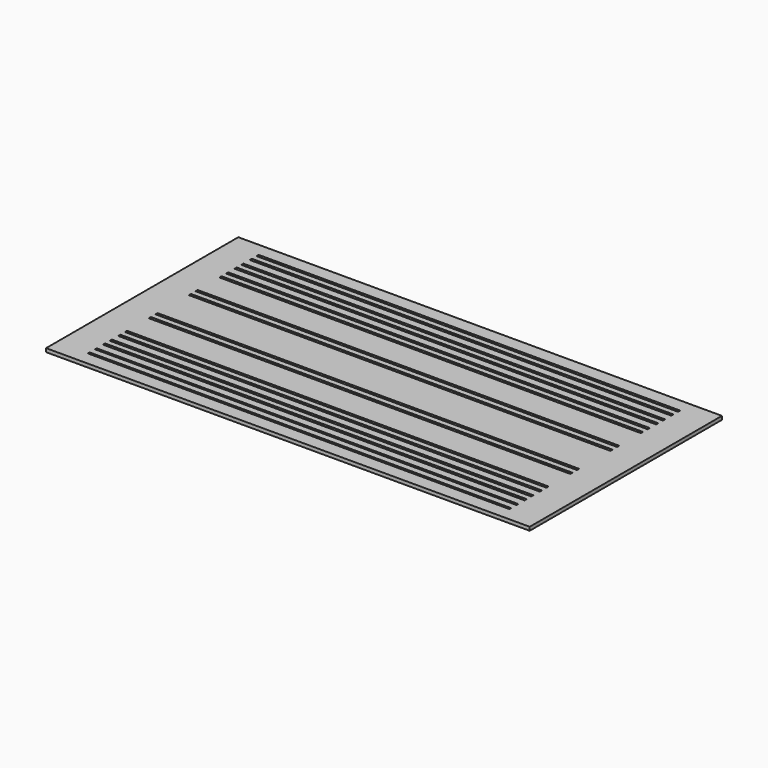
from build123d import *

# Parameters (mm, degrees)
F1_W     = 1091
F1_H     = 542
F1_W_2   = 951
F1_H_2   = 5
F1_H_3   = 6
F2_DEPTH = 8


with BuildPart() as f2:
    # F1 (on face) → F2 (new body)
    with BuildSketch(Plane.XY):
        with Locations((545.5, 271)):
            Rectangle(F1_W, F1_H)
        with Locations((545.5, 32.75)):
            Rectangle(F1_W_2, F1_H_2, mode=Mode.SUBTRACT)
        with Locations((545.5, 52.75)):
            Rectangle(F1_W_2, F1_H_2, mode=Mode.SUBTRACT)
        with Locations((545.5, 76)):
            Rectangle(F1_W_2, F1_H_3, mode=Mode.SUBTRACT)
        with Locations((545.5, 95)):
            Rectangle(F1_W_2, F1_H_3, mode=Mode.SUBTRACT)
        with Locations((545.5, 118.75)):
            Rectangle(F1_W_2, F1_H_3, mode=Mode.SUBTRACT)
        with Locations((545.5, 137.75)):
            Rectangle(F1_W_2, F1_H_3, mode=Mode.SUBTRACT)
        with Locations((545.5, 205.061247)):
            Rectangle(F1_W_2, F1_H_3, mode=Mode.SUBTRACT)
        with Locations((545.5, 224.061247)):
            Rectangle(F1_W_2, F1_H_3, mode=Mode.SUBTRACT)
        with Locations((545.5, 317.938753)):
            Rectangle(F1_W_2, F1_H_3, mode=Mode.SUBTRACT)
        with Locations((545.5, 336.938753)):
            Rectangle(F1_W_2, F1_H_3, mode=Mode.SUBTRACT)
        with Locations((545.5, 404.25)):
            Rectangle(F1_W_2, F1_H_3, mode=Mode.SUBTRACT)
        with Locations((545.5, 423.25)):
            Rectangle(F1_W_2, F1_H_3, mode=Mode.SUBTRACT)
        with Locations((545.5, 447)):
            Rectangle(F1_W_2, F1_H_3, mode=Mode.SUBTRACT)
        with Locations((545.5, 466)):
            Rectangle(F1_W_2, F1_H_3, mode=Mode.SUBTRACT)
        with Locations((545.5, 489.75)):
            Rectangle(F1_W_2, F1_H_3, mode=Mode.SUBTRACT)
        with Locations((545.5, 508.75)):
            Rectangle(F1_W_2, F1_H_3, mode=Mode.SUBTRACT)
    extrude(amount=F2_DEPTH)


solid = f2.part
